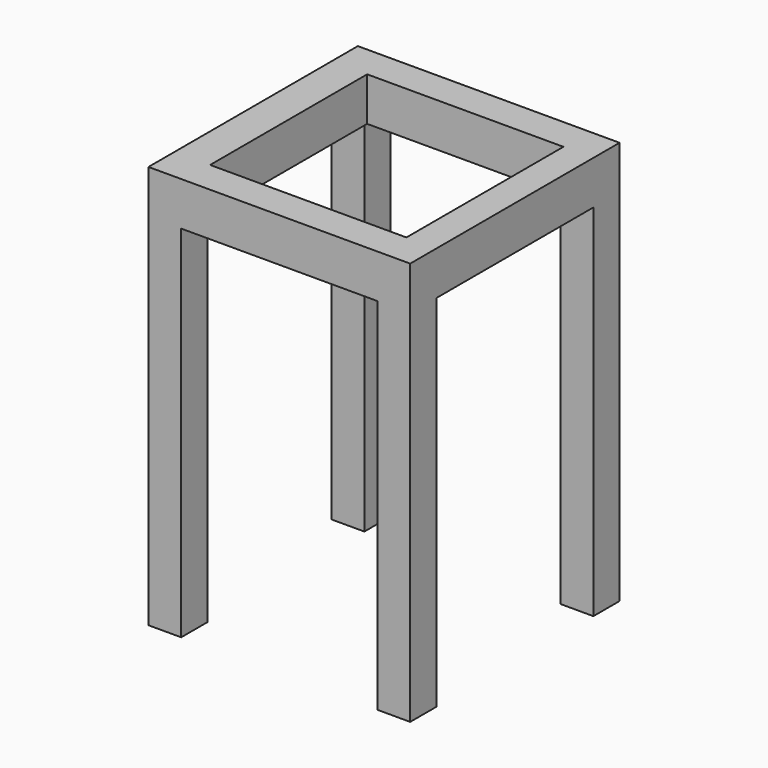
from build123d import *

# Parameters (mm, degrees)
F0_W      = 120
F0_H      = 120
F1_DEPTH  = 5
F2_R      = 12.5
F3_DEPTH  = 25
F4_W      = 120
F4_H      = 120
F5_DEPTH  = 180
F6_W      = 90
F6_H      = 165
F7_DEPTH  = 120
F8_W      = 90
F8_H      = 165
F9_DEPTH  = 120
F10_W     = 90
F10_H     = 90
F11_DEPTH = 25


with BuildPart() as f1:
    # F0 (on Top) → F1 (new body)
    with BuildSketch(Plane.XY):
        with Locations((-0.624557, 27.300639)):
            Rectangle(F0_W, F0_H)
    extrude(amount=F1_DEPTH)

    # F2 (on face) → F3 (cut)
    with BuildSketch(Plane.XY.offset(5)):
        with Locations((-0.624557, 27.300639)):
            Circle(F2_R)
    extrude(amount=-F3_DEPTH, mode=Mode.SUBTRACT)

    # F4 (on face) → F5 (join)
    with BuildSketch(Plane.XY.offset(5)):
        with Locations((-0.624557, 27.300639)):
            Rectangle(F4_W, F4_H)
    extrude(amount=F5_DEPTH)

    # F6 (on face) → F7 (cut)
    with BuildSketch(Plane.XZ.offset(32.699361)):
        with Locations((-0.624557, 82.5)):
            Rectangle(F6_W, F6_H)
    extrude(amount=-F7_DEPTH, mode=Mode.SUBTRACT)

    # F8 (on face) → F9 (cut)
    with BuildSketch(Plane(origin=(-60.624557, 0, 0), x_dir=(0, -1, 0), z_dir=(-1, 0, 0))):
        with Locations((-27.300639, 82.5)):
            Rectangle(F8_W, F8_H)
    extrude(amount=-F9_DEPTH, mode=Mode.SUBTRACT)

    # F10 (on face) → F11 (cut)
    with BuildSketch(Plane.XY.offset(185)):
        with Locations((0.647055, 27.300639)):
            Rectangle(F10_W, F10_H)
    extrude(amount=-F11_DEPTH, mode=Mode.SUBTRACT)


solid = f1.part
